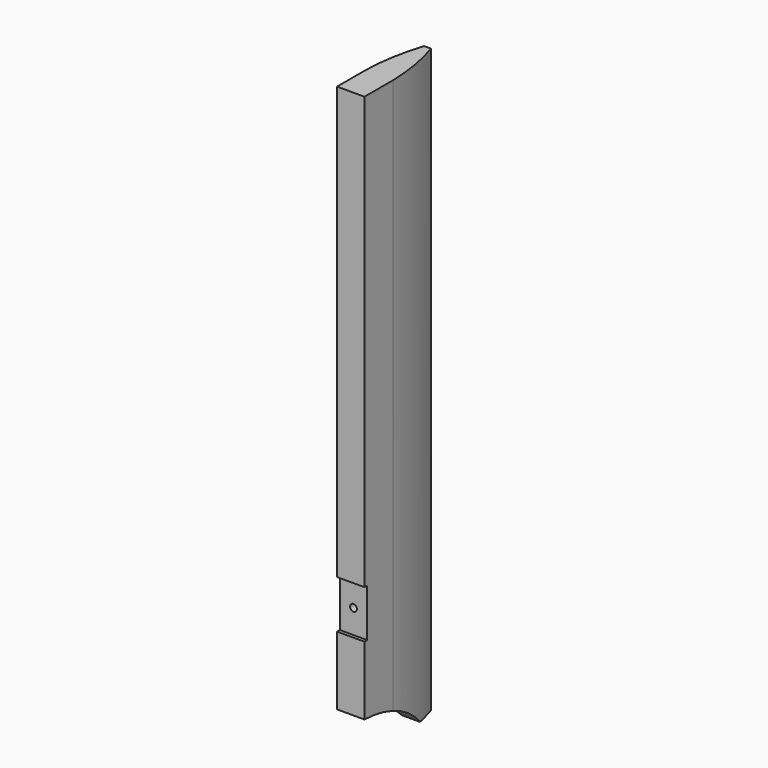
from build123d import *

# Parameters (mm, degrees)
F1_DEPTH = 850
F2_W     = 40
F2_H     = 70
F3_DEPTH = 5
F4_R     = 5
F5_DEPTH = 25
F7_DEPTH = 150


with BuildPart() as f1:
    # F0 (on Top) → F1 (new body)
    with BuildSketch(Plane.XY):
        with BuildLine():
            Line((49.398924, -4.319251), (39.398924, -4.319251))
            ThreePointArc((39.398924, -4.319251), (28.691348, -47.741817), (24.398924, -92.258629))
            Line((24.398924, -92.258629), (24.398924, -106.582679))
            Line((24.398924, -106.582679), (24.398924, -144.319251))
            Line((24.398924, -144.319251), (64.398924, -144.319251))
            Line((64.398924, -144.319251), (64.398924, -106.582679))
            Line((64.398924, -106.582679), (64.398924, -92.258629))
            ThreePointArc((64.398924, -92.258629), (60.1065, -47.741817), (49.398924, -4.319251))
        make_face()
    extrude(amount=F1_DEPTH)

    # F2 (on face) → F3 (cut)
    with BuildSketch(Plane.XZ.offset(144.319251)):
        with Locations((44.398924, 185)):
            Rectangle(F2_W, F2_H)
    extrude(amount=-F3_DEPTH, mode=Mode.SUBTRACT)

    # F4 (on face) → F5 (cut)
    with BuildSketch(Plane.XZ.offset(139.319251)):
        with Locations((44.398924, 185)):
            Circle(F4_R)
    extrude(amount=-F5_DEPTH, mode=Mode.SUBTRACT)

    # F6 (on Right) → F7 (cut)
    with BuildSketch(Plane.YZ):
        with BuildLine():
            Line((-144.319251, 0), (-34.319251, 0))
            ThreePointArc((-34.319251, 0), (-84.06201, 36.565931), (-144.319251, 50))
            Line((-144.319251, 50), (-144.319251, 0))
        make_face()
    extrude(amount=F7_DEPTH, mode=Mode.SUBTRACT)


solid = f1.part
